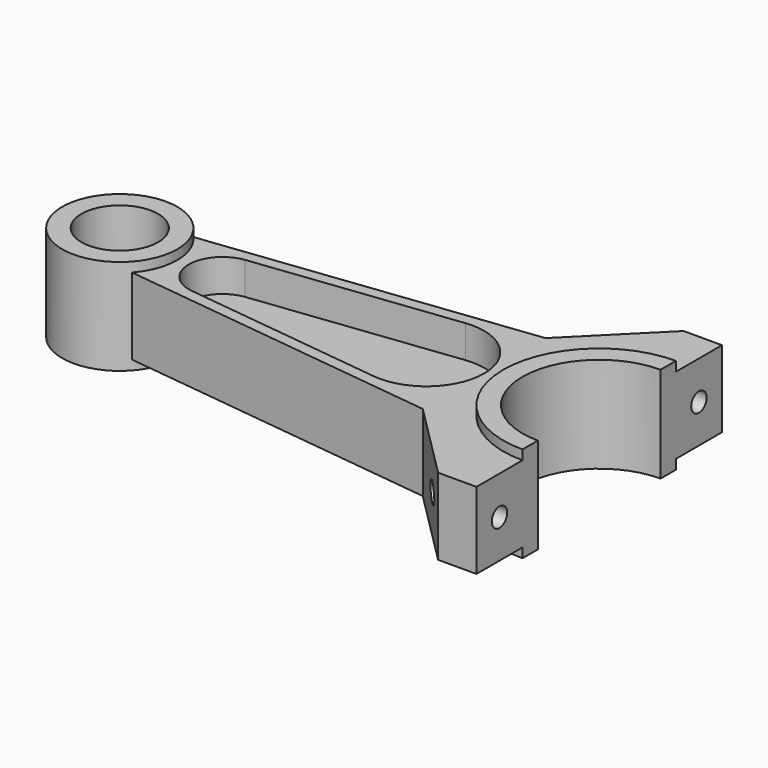
from build123d import *

# Parameters (mm, degrees)
SKETCH001_R     = 15
SKETCH001_R_2   = 10
PAD_DEPTH       = 12.5
PAD001_DEPTH    = 10
PAD002_DEPTH    = 12.5
POCKET_DEPTH    = 337.344377
SKETCH006_R     = 2.5
POCKET001_DEPTH = 140.001


with BuildPart() as part:
    # Sketch001 → Pad (new body, symmetric)
    with BuildSketch(Plane.XY):
        Circle(SKETCH001_R)
        Circle(SKETCH001_R_2, mode=Mode.SUBTRACT)
    extrude(amount=PAD_DEPTH, both=True)

    # Sketch004 → Pad001 (join, symmetric)
    with BuildSketch(Plane.XY):
        with BuildLine():
            Line((125, 25), (125, 40))
            Line((125, 40), (115, 40))
            Line((115, 40), (95, 20))
            Line((95, 20), (11.18034, 10))
            ThreePointArc((11.18034, -10), (15, 0), (11.18034, 10))
            Line((11.18034, -10), (95, -20))
            Line((95, -20), (115, -40))
            Line((115, -40), (125, -40))
            Line((125, -40), (125, -25))
            ThreePointArc((125, 25), (100, 0), (125, -25))
        make_face()
    extrude(amount=PAD001_DEPTH, both=True)

    # Sketch003 → Pad002 (join, symmetric)
    with BuildSketch(Plane.XY):
        with BuildLine():
            ThreePointArc((125, 20), (105, 0), (125, -20))
            Line((125, -20), (125, -25))
            ThreePointArc((125, 25), (100, 0), (125, -25))
            Line((125, 25), (125, 20))
        make_face()
    extrude(amount=PAD002_DEPTH, both=True)

    # Sketch005 (on DatumPlane) → Pocket (cut, through all)
    with BuildSketch(Plane.XY.offset(1.5)):
        with BuildLine():
            ThreePointArc((25.737466, 8.715445), (18, 0), (25.737466, -8.715445))
            Line((25.737466, -8.715445), (78.140832, -14.967363))
            ThreePointArc((78.140832, -14.967363), (95, 0), (78.140832, 14.967363))
            Line((25.737466, 8.715445), (78.140832, 14.967363))
        make_face()
    pocket = extrude(amount=POCKET_DEPTH, mode=Mode.SUBTRACT)

    # Mirrored: Pocket across XY
    add(pocket.mirror(Plane.XY), mode=Mode.SUBTRACT)

    # Sketch006 (on DatumPlane) → Pocket001 (cut, through all)
    with BuildSketch(Plane(origin=(125, 0, 0), x_dir=(0, -1, 0), z_dir=(-1, 0, 0))):
        with Locations((-32.5, 0)):
            Circle(SKETCH006_R)
        with Locations((32.5, 0)):
            Circle(SKETCH006_R)
    extrude(amount=POCKET001_DEPTH, mode=Mode.SUBTRACT)


solid = part.part
